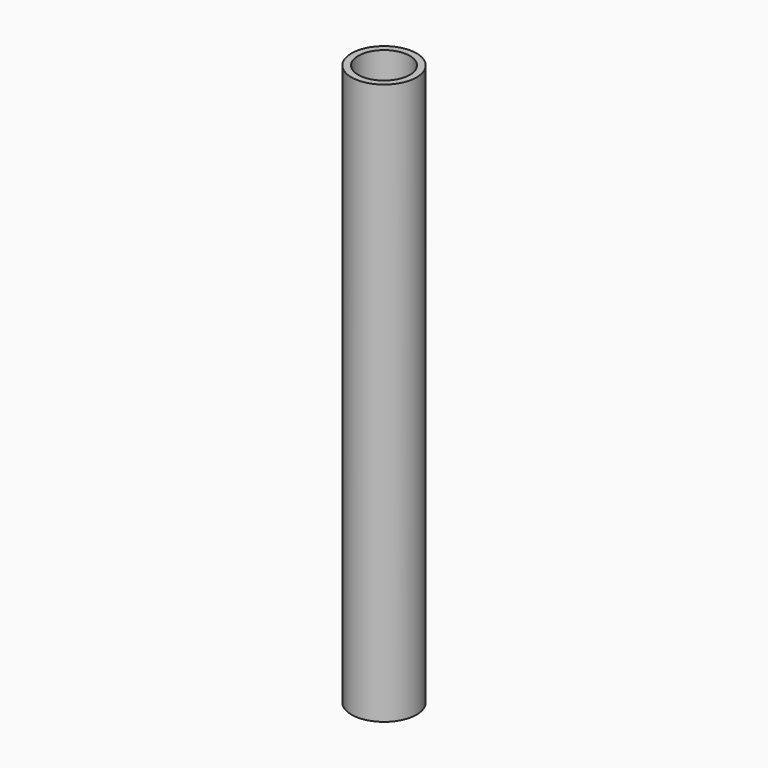
from build123d import *

# Parameters (mm, degrees)
F2_R   = 4.8895
F2_R_2 = 3.8735


with BuildPart() as f3:
    # F3: sweep along a path in F0
    with BuildLine(Plane.YZ) as f3_path:
        Line((0, 23.444897), (0, -60.810689))
    # F2 (on face) → F3 (sweep)
    with BuildSketch(Plane(origin=(0, 0, 23.444897), x_dir=(1, 0, 0), z_dir=(0, 0, -1))):
        Circle(F2_R)
        Circle(F2_R_2, mode=Mode.SUBTRACT)
    sweep(path=f3_path.line)


solid = f3.part
